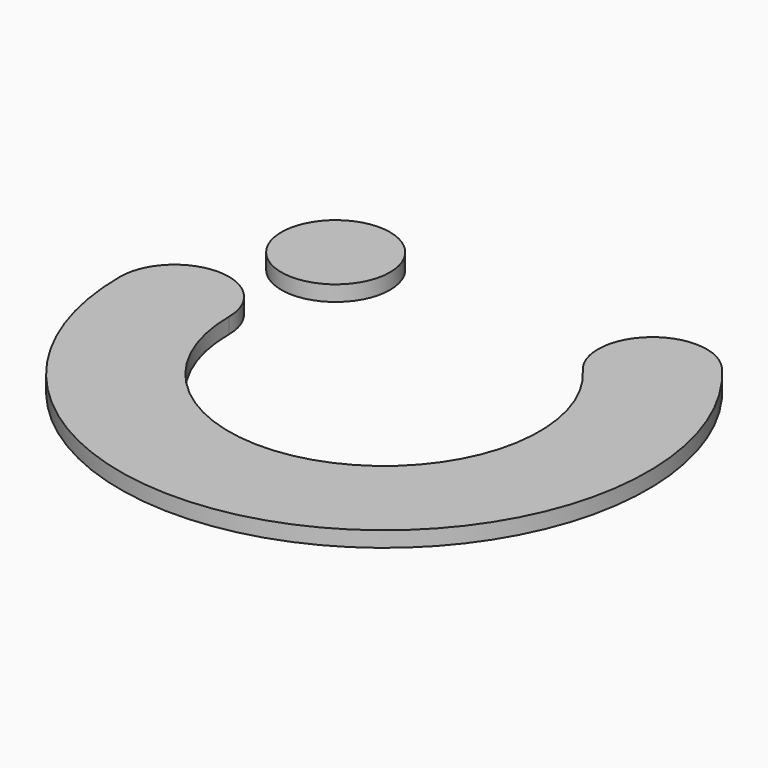
from build123d import *

# Parameters (mm, degrees)
F0_R     = 7
F1_DEPTH = 2


with BuildPart() as f1:
    # F0 (on Top) → F1 (new body)
    with BuildSketch(Plane.XY):
        with BuildLine():
            ThreePointArc((-20, 0), (-27, 7), (-34, 0))
            ThreePointArc((-34, 0), (11.891888, -31.852519), (25.681352, 22.281565))
            ThreePointArc((25.681352, 22.281565), (15.806634, 22.981521), (15.106678, 13.106803))
            ThreePointArc((15.106678, 13.106803), (6.995228, -18.736776), (-20, 0))
        make_face()
        with Locations((-20.394015, 17.694184)):
            Circle(F0_R)
    extrude(amount=F1_DEPTH)


solid = f1.part
